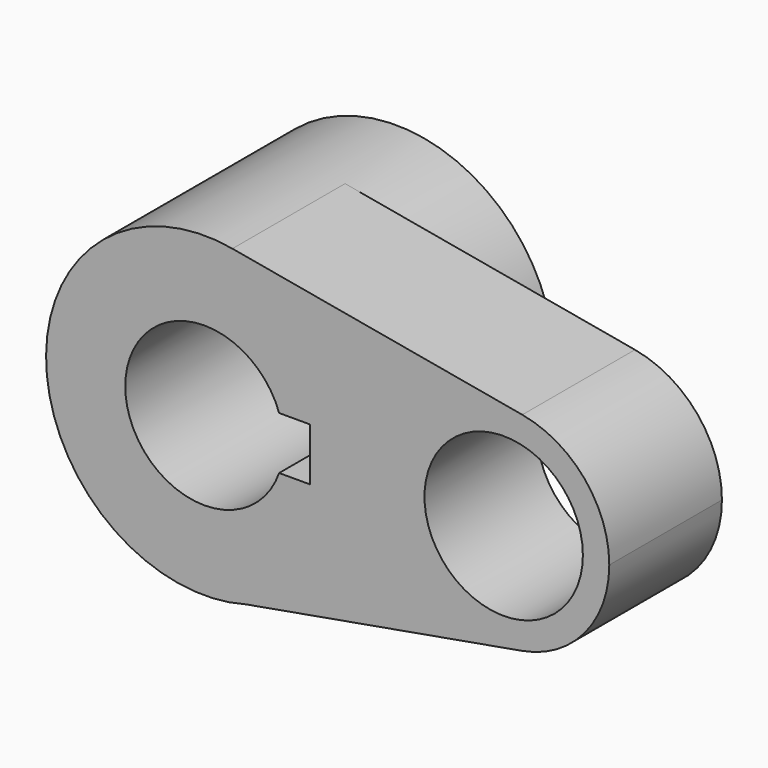
from build123d import *

# Parameters (mm, degrees)
F0_R     = 14.2875
F1_DEPTH = 25.4
F2_DEPTH = 43.18


with BuildPart() as f1:
    # F0 (on Front) → F1 (new body)
    with BuildSketch(Plane.XZ):
        with BuildLine():
            ThreePointArc((7.5618183068, -27.5562974453), (22.7223412429, -17.3270260992), (28.575, 0))
            ThreePointArc((28.575, 0), (21.9160245563, 18.3362616868), (5.0426470588, 28.1265414802))
            ThreePointArc((5.0426470588, 28.1265414802), (-28.5458013461, -1.2914528675), (7.5618183068, -27.5562974453))
        make_face()
        with BuildLine():
            ThreePointArc((-13.4703841816, 4.7625), (0, 14.2875), (13.4703841816, 4.7625))
            Line((13.4703841816, 4.7625), (19.05, 4.7625))
            Line((19.05, 4.7625), (19.05, -4.7625))
            Line((19.05, -4.7625), (13.4703841816, -4.7625))
            ThreePointArc((13.4703841816, -4.7625), (0, -14.2875), (-13.4703841816, -4.7625))
            Line((-13.4703841816, -4.7625), (-19.05, -4.7625))
            Line((-19.05, -4.7625), (-19.05, 4.7625))
            Line((-19.05, 4.7625), (-13.4703841816, 4.7625))
        make_face(mode=Mode.SUBTRACT)
        with BuildLine():
            ThreePointArc((5.0426470588, 28.1265414802), (21.9160245563, 18.3362616868), (28.575, 0))
            ThreePointArc((28.575, 0), (22.7223412429, -17.3270260992), (7.5618183068, -27.5562974453))
            Line((7.5618183068, -27.5562974453), (57.2934332861, -18.7587446415))
            ThreePointArc((57.2934332861, -18.7587446415), (34.9250127111, 0.0220066118), (57.3367647059, 18.7510276535))
            Line((57.3367647059, 18.7510276535), (5.0426470588, 28.1265414802))
        make_face()
        with BuildLine():
            ThreePointArc((73.025, 0), (68.5856830375, 12.2241744579), (57.3367647059, 18.7510276535))
            ThreePointArc((57.3367647059, 18.7510276535), (34.9250127111, 0.0220066118), (57.2934332861, -18.7587446415))
            ThreePointArc((57.2934332861, -18.7587446415), (68.571551889, -12.2410446021), (73.025, 0))
        make_face()
        with Locations((53.975, 0)):
            Circle(F0_R, mode=Mode.SUBTRACT)
        with BuildLine():
            ThreePointArc((-13.4703841816, -4.7625), (-14.2875, 0), (-13.4703841816, 4.7625))
            Line((-13.4703841816, 4.7625), (-19.05, 4.7625))
            Line((-19.05, 4.7625), (-19.05, -4.7625))
            Line((-19.05, -4.7625), (-13.4703841816, -4.7625))
        make_face()
    extrude(amount=-F1_DEPTH)

    # F0 (on Front) → F2 (join)
    with BuildSketch(Plane.XZ):
        with BuildLine():
            ThreePointArc((7.5618183068, -27.5562974453), (22.7223412429, -17.3270260992), (28.575, 0))
            ThreePointArc((28.575, 0), (21.9160245563, 18.3362616868), (5.0426470588, 28.1265414802))
            ThreePointArc((5.0426470588, 28.1265414802), (-28.5458013461, -1.2914528675), (7.5618183068, -27.5562974453))
        make_face()
        with BuildLine():
            ThreePointArc((-13.4703841816, 4.7625), (0, 14.2875), (13.4703841816, 4.7625))
            Line((13.4703841816, 4.7625), (19.05, 4.7625))
            Line((19.05, 4.7625), (19.05, -4.7625))
            Line((19.05, -4.7625), (13.4703841816, -4.7625))
            ThreePointArc((13.4703841816, -4.7625), (0, -14.2875), (-13.4703841816, -4.7625))
            Line((-13.4703841816, -4.7625), (-19.05, -4.7625))
            Line((-19.05, -4.7625), (-19.05, 4.7625))
            Line((-19.05, 4.7625), (-13.4703841816, 4.7625))
        make_face(mode=Mode.SUBTRACT)
        with BuildLine():
            ThreePointArc((-13.4703841816, -4.7625), (-14.2875, 0), (-13.4703841816, 4.7625))
            Line((-13.4703841816, 4.7625), (-19.05, 4.7625))
            Line((-19.05, 4.7625), (-19.05, -4.7625))
            Line((-19.05, -4.7625), (-13.4703841816, -4.7625))
        make_face()
    extrude(amount=-F2_DEPTH)


solid = f1.part
